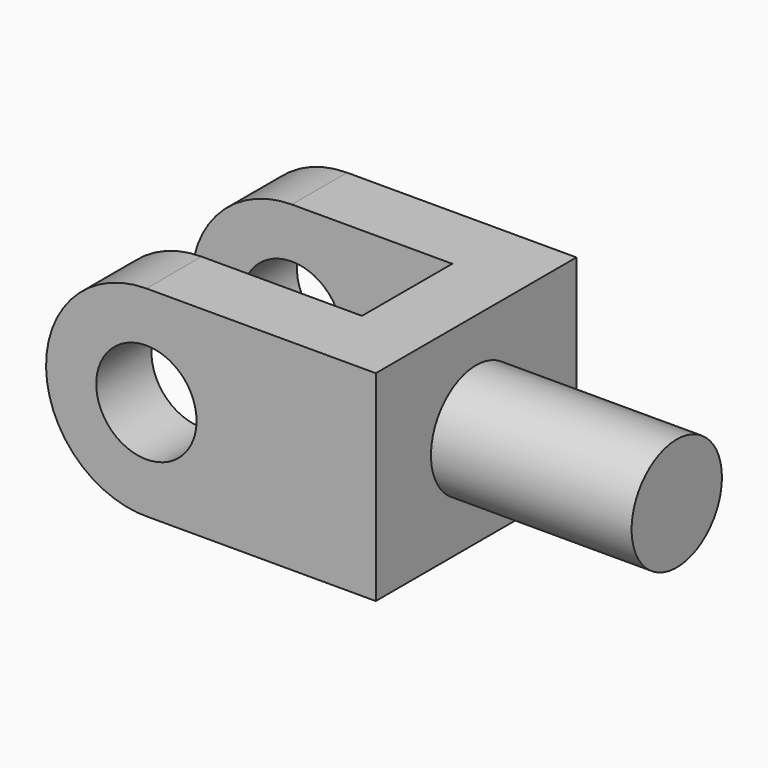
from build123d import *

# Parameters (mm, degrees)
F0_R     = 203.2
F1_DEPTH = 1016
F2_R     = 228.6
F3_DEPTH = 812.8
F5_W     = 533.122748
F5_H     = 457.2
F6_DEPTH = 812.801
F5_W_2   = 649.697065
F7_DEPTH = 812.801


with BuildPart() as f1:
    # F0 (on Front) → F1 (new body)
    with BuildSketch(Plane.XZ):
        with BuildLine():
            Line((14.697065, 56.260465), (929.097065, 56.260465))
            Line((929.097065, 56.260465), (929.097065, 868.794625))
            Line((929.097065, 868.794625), (0, 868.794625))
            ThreePointArc((0, 868.794625), (-406.333535, 455.04489), (14.697065, 56.260465))
        make_face()
        with Locations((0, 462.394625)):
            Circle(F0_R, mode=Mode.SUBTRACT)
    extrude(amount=F1_DEPTH)

    # F2 (on face) → F3 (join)
    with BuildSketch(Plane.YZ.offset(929.097065)):
        with Locations((-508, 462.394625)):
            Circle(F2_R)
    extrude(amount=F3_DEPTH)

    # F5 (on face) → F6 (cut, through all)
    with BuildSketch(Plane.XY.offset(868.794625)):
        with Locations((-266.561374, -508)):
            Rectangle(F5_W, F5_H)
    extrude(amount=-F6_DEPTH, mode=Mode.SUBTRACT)

    # F5 (on face) → F7 (cut, through all)
    with BuildSketch(Plane.XY.offset(868.794625)):
        with Locations((324.848532, -508)):
            Rectangle(F5_W_2, F5_H)
        with Locations((-266.561374, -508)):
            Rectangle(F5_W, F5_H)
    extrude(amount=-F7_DEPTH, mode=Mode.SUBTRACT)


solid = f1.part
